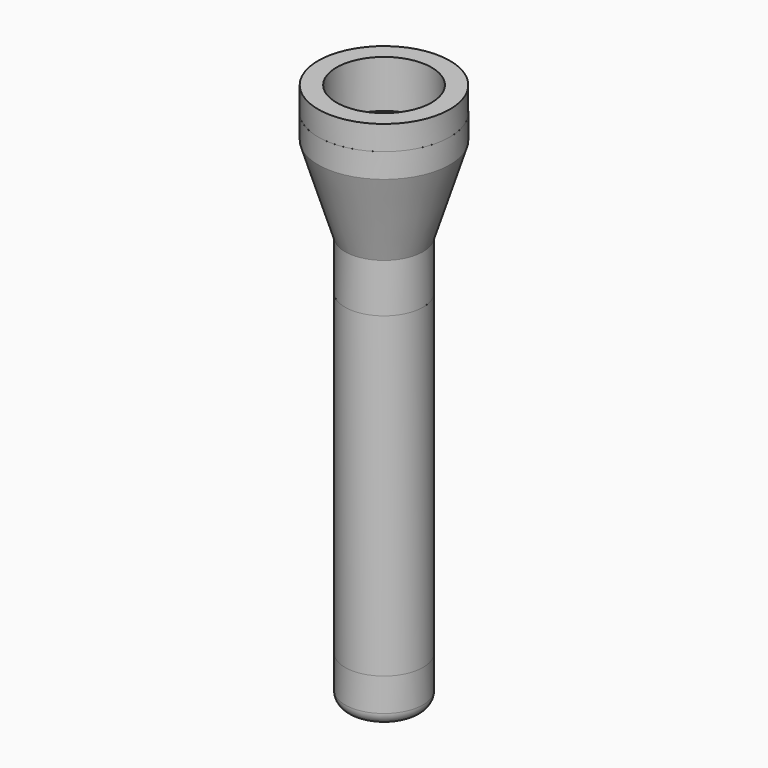
from build123d import *

# Parameters (mm, degrees)
SKETCH_R                = 16
SKETCH_R_2              = 11
PAD_DEPTH               = 140
SKETCH028_R             = 13.5
POCKET001_DEPTH         = 10
SKETCH006_R             = 16
SKETCH006_R_2           = 13.465624
POCKET_DEPTH            = 10
SKETCH003_R             = 16.002773
PAD001_DEPTH            = 18.5
SKETCH005_R             = 13.5
PAD002_DEPTH            = 6
FILLET_R                = 5
SKETCH027_R             = 8
HOLE_DEPTH              = 31
SKETCH030_R             = 11.5
POCKET002_DEPTH         = 13.5
SKETCH046_R             = 0.875
HOLE002_DEPTH           = 9.474247
HOLE002_TIPS_R          = 0.875
SKETCH018_R             = 27
PAD004_DEPTH            = 10
SKETCH019_R             = 24
PAD005_DEPTH            = 9.5
SKETCH020_R             = 19.5
HOLE001_DEPTH           = 33
SKETCH041_R             = 14.003802
PAD006_DEPTH            = 10
SKETCH042_R             = 13
POCKET003_DEPTH         = 2
SKETCH043_R             = 11.527411
POCKET004_DEPTH         = 5
POCKET005_DEPTH         = 5
POLARPATTERN_COUNT      = 5
SKETCH045_R             = 10.25
POCKET006_DEPTH         = 1
BODY006_PLACEMENT_ANGLE = 36


with BuildPart() as batteryholder:
    # Sketch → Pad (new body)
    with BuildSketch(Plane.XY):
        Circle(SKETCH_R)
        Circle(SKETCH_R_2, mode=Mode.SUBTRACT)
    extrude(amount=PAD_DEPTH)

    # Sketch028 → Pocket001 (cut)
    with BuildSketch(Plane(origin=(0, 0, 0), x_dir=(1, 0, 0), z_dir=(0, 0, -1))):
        Circle(SKETCH028_R)
    extrude(amount=-POCKET001_DEPTH, mode=Mode.SUBTRACT)

    # Sketch006 (on Face4 of Pad) → Pocket (cut)
    with BuildSketch(Plane.XY.offset(140)):
        Circle(SKETCH006_R)
        Circle(SKETCH006_R_2, mode=Mode.SUBTRACT)
    extrude(amount=-POCKET_DEPTH, mode=Mode.SUBTRACT)


with BuildPart() as endcap:
    # Sketch003 → Pad001 (new body)
    with BuildSketch(Plane.XY):
        with Locations((0.001338, -1.5e-05)):
            Circle(SKETCH003_R)
    extrude(amount=-PAD001_DEPTH)

    # Sketch005 (on Face2 of Pad001) → Pad002 (join)
    with BuildSketch(Plane.XY):
        Circle(SKETCH005_R)
    extrude(amount=PAD002_DEPTH)

    # Fillet
    fillet_edges = [endcap.edges().sort_by_distance(p)[0] for p in [
        (-16.001435, -1.5e-05, -18.5),
    ]]
    fillet(fillet_edges, radius=FILLET_R)

    # Sketch027 (on Face4 of Fillet) → Hole (cut)
    with BuildSketch(Plane(origin=(0, 0, -18.5), x_dir=(1, 0, 0), z_dir=(0, 0, -1))):
        Circle(SKETCH027_R)
    extrude(amount=-HOLE_DEPTH, mode=Mode.SUBTRACT)

    # Sketch030 (on Face7 of Hole) → Pocket002 (cut)
    with BuildSketch(Plane.XY.offset(6)):
        Circle(SKETCH030_R)
    extrude(amount=-POCKET002_DEPTH, mode=Mode.SUBTRACT)

    # Sketch046 (on Face8 of Pocket002) → Hole002 (cut)
    with BuildSketch(Plane.XY.offset(-7.5)):
        with Locations((10, 0)):
            Circle(SKETCH046_R)
    extrude(amount=-HOLE002_DEPTH, mode=Mode.SUBTRACT)

    # Hole002 tips → Hole002 tip 1 section 0
    with BuildSketch(Plane.XY.offset(-16.974247), mode=Mode.PRIVATE) as hole002_tip_1_s0:
        with Locations((10, 0)):
            Circle(HOLE002_TIPS_R)
    loft([hole002_tip_1_s0.sketch, Vertex(10, 0, -17.5)], mode=Mode.SUBTRACT)


with BuildPart() as obj1:
    # Sketch018 (on DatumPlane) → Pad004 (new body)
    with BuildSketch(Plane.XY.offset(249)):
        Circle(SKETCH018_R)
    extrude(amount=PAD004_DEPTH)

    # Sketch019 (on Face2 of Pad004) → Pad005 (join)
    with BuildSketch(Plane(origin=(0, 0, 249), x_dir=(1, 0, 0), z_dir=(0, 0, -1))):
        Circle(SKETCH019_R)
    extrude(amount=PAD005_DEPTH)

    # Sketch020 (on Face5 of Pad005) → Hole001 (cut)
    with BuildSketch(Plane(origin=(0, 0, 239.5), x_dir=(1, 0, 0), z_dir=(0, 0, -1))):
        Circle(SKETCH020_R)
    extrude(amount=-HOLE001_DEPTH, mode=Mode.SUBTRACT)


with BuildPart() as obj1_1:
    # Body004 placement: moved
    add(obj1.part.moved(Location((0, 0, -54))))


with BuildPart() as flashlighthead:
    # Sketch039 → Revolution001 (revolve)
    with BuildSketch(Plane.YZ):
        Polygon((27, 195), (24, 195), (24, 183.49054), (21, 183.513733), (21, 182), (11, 152), (8.5, 152), (8.5, 150.5), (14, 150.5), (14, 141), (14, 140), (14, 130), (16, 130), (16, 150), (27, 185), align=None)
    revolve(axis=Axis((0, 0, 0), (0, 0, 1)))


with BuildPart() as led_holder:
    # Sketch041 (on DatumPlane) → Pad006 (new body)
    with BuildSketch(Plane.XY.offset(150.5)):
        Circle(SKETCH041_R)
    extrude(amount=-PAD006_DEPTH)

    # Sketch042 (on Face3 of Pad006) → Pocket003 (cut)
    with BuildSketch(Plane(origin=(0, 0, 140.5), x_dir=(1, 0, 0), z_dir=(0, 0, -1))):
        Circle(SKETCH042_R)
    extrude(amount=-POCKET003_DEPTH, mode=Mode.SUBTRACT)

    # Sketch043 (on Face5 of Pocket003) → Pocket004 (cut)
    with BuildSketch(Plane(origin=(0, 0, 142.5), x_dir=(1, 0, 0), z_dir=(0, 0, -1))):
        Circle(SKETCH043_R)
    extrude(amount=-POCKET004_DEPTH, mode=Mode.SUBTRACT)

    # Sketch044 (on Face7 of Pocket004) → Pocket005 (cut)
    with BuildSketch(Plane(origin=(0, 0, 147.5), x_dir=(1, 0, 0), z_dir=(0, 0, -1))):
        with BuildLine():
            ThreePointArc((1.777335, 9.706216), (0, 11.483551), (-1.777335, 9.706216))
            Line((-1.777335, 9.706216), (-1.777335, 4.336525))
            ThreePointArc((-1.777335, 4.336525), (0, 2.55919), (1.777335, 4.336525))
            Line((1.777335, 9.706216), (1.777335, 4.336525))
        make_face()
    pocket005 = extrude(amount=-POCKET005_DEPTH, mode=Mode.SUBTRACT)

    # PolarPattern: Pocket005 ×5 about axis
    polarpattern_axis = Axis((0, 0, 147.5), (0, 0, -1))
    for i in range(1, POLARPATTERN_COUNT):
        add(pocket005.rotate(polarpattern_axis, i * 360 / POLARPATTERN_COUNT), mode=Mode.SUBTRACT)

    # Sketch045 (on Face2 of PolarPattern) → Pocket006 (cut)
    with BuildSketch(Plane.XY.offset(150.5)):
        Circle(SKETCH045_R)
    extrude(amount=-POCKET006_DEPTH, mode=Mode.SUBTRACT)


with BuildPart() as led_holder_1:
    # Body006 placement: moved
    add(led_holder.part.rotate(Axis((0, 0, 0), (0, 0, -1)), BODY006_PLACEMENT_ANGLE))


solid = Compound([batteryholder.part, endcap.part, obj1_1.part, flashlighthead.part, led_holder_1.part])
